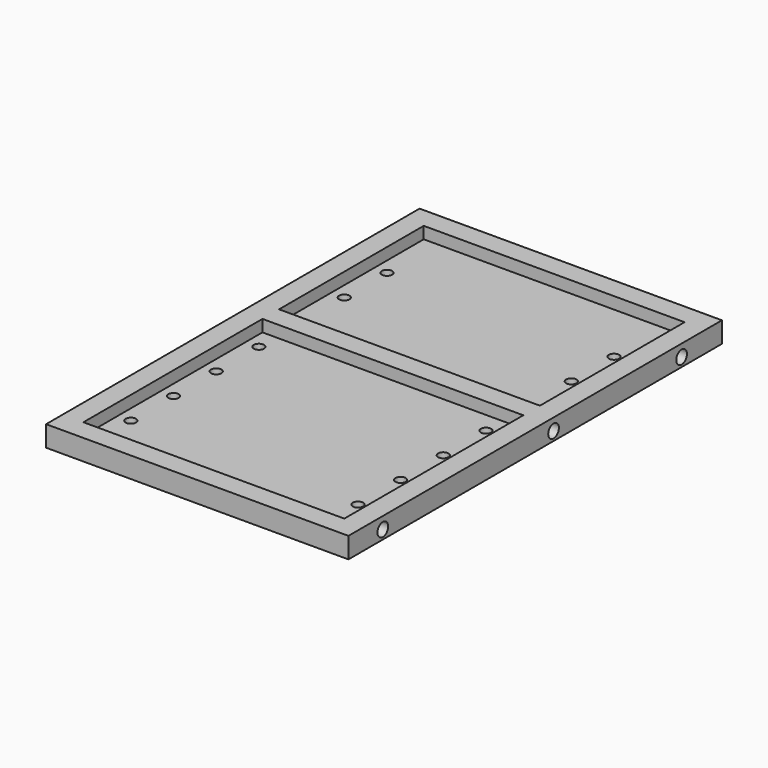
from build123d import *

# Parameters (mm, degrees)
SKETCH036_W     = 102
SKETCH036_H     = 175
PAD010_DEPTH    = 7
SKETCH037_R     = 1.75
POCKET022_DEPTH = 7.001
SKETCH038_R     = 2.25
POCKET023_DEPTH = 5
SKETCH039_R     = 2.25
POCKET024_DEPTH = 5
SKETCH040_W     = 88
SKETCH040_H     = 61
SKETCH040_H_2   = 75.5
POCKET025_DEPTH = 4
SKETCH041_W     = 186.33641
SKETCH041_H     = 47.448593
POCKET026_DEPTH = 7.001


with BuildPart() as part:
    # Sketch036 → Pad010 (new body)
    with BuildSketch(Plane.XY):
        with Locations((51, 87.5)):
            Rectangle(SKETCH036_W, SKETCH036_H)
    extrude(amount=PAD010_DEPTH)

    # Sketch037 (on Face5 of Pad010) → Pocket022 (cut, through all)
    with BuildSketch(Plane(origin=(0, 0, 0), x_dir=(1, 0, 0), z_dir=(0, 0, -1))):
        with Locations((88, -129.5)):
            Circle(SKETCH037_R)
        with Locations((11.4, -129.5)):
            Circle(SKETCH037_R)
        with Locations((88, -111.5)):
            Circle(SKETCH037_R)
        with Locations((11.4, -111.5)):
            Circle(SKETCH037_R)
        with Locations((88, -93.5)):
            Circle(SKETCH037_R)
        with Locations((11.4, -93.5)):
            Circle(SKETCH037_R)
        with Locations((11.4, -75.5)):
            Circle(SKETCH037_R)
        with Locations((88, -75.5)):
            Circle(SKETCH037_R)
        with Locations((88, -57.5)):
            Circle(SKETCH037_R)
        with Locations((88, -39.5)):
            Circle(SKETCH037_R)
        with Locations((11.4, -39.5)):
            Circle(SKETCH037_R)
        with Locations((11.4, -21.5)):
            Circle(SKETCH037_R)
        with Locations((88, -21.5)):
            Circle(SKETCH037_R)
        with Locations((11.4, -57.5)):
            Circle(SKETCH037_R)
    extrude(amount=-POCKET022_DEPTH, mode=Mode.SUBTRACT)

    # Sketch038 (on Face1 of Pocket022) → Pocket023 (cut)
    with BuildSketch(Plane(origin=(0, 0, 0), x_dir=(0, -1, 0), z_dir=(-1, 0, 0))):
        with Locations((-14.5, 3)):
            Circle(SKETCH038_R)
        with Locations((-86.5, 3)):
            Circle(SKETCH038_R)
        with Locations((-140.5, 3)):
            Circle(SKETCH038_R)
    extrude(amount=-POCKET023_DEPTH, mode=Mode.SUBTRACT)

    # Sketch039 (on Face9 of Pocket023) → Pocket024 (cut)
    with BuildSketch(Plane.YZ.offset(102)):
        with Locations((14.5, 3)):
            Circle(SKETCH039_R)
        with Locations((86.5, 3)):
            Circle(SKETCH039_R)
        with Locations((140.5, 3)):
            Circle(SKETCH039_R)
    extrude(amount=-POCKET024_DEPTH, mode=Mode.SUBTRACT)

    # Sketch040 (on Face4 of Pocket024) → Pocket025 (cut)
    with BuildSketch(Plane.XY.offset(7)):
        with Locations((51, 120)):
            Rectangle(SKETCH040_W, SKETCH040_H)
        with Locations((51, 44.75)):
            Rectangle(SKETCH040_W, SKETCH040_H_2)
    extrude(amount=-POCKET025_DEPTH, mode=Mode.SUBTRACT)

    # Sketch041 (on Face4 of Pocket025) → Pocket026 (cut, through all)
    with BuildSketch(Plane.XY.offset(7)):
        with Locations((50.088417, 181.224296)):
            Rectangle(SKETCH041_W, SKETCH041_H)
    extrude(amount=-POCKET026_DEPTH, mode=Mode.SUBTRACT)


with BuildPart() as part_1:
    # Body009 placement: moved
    add(part.part.moved(Location((0, 0, 77))))


solid = part_1.part
